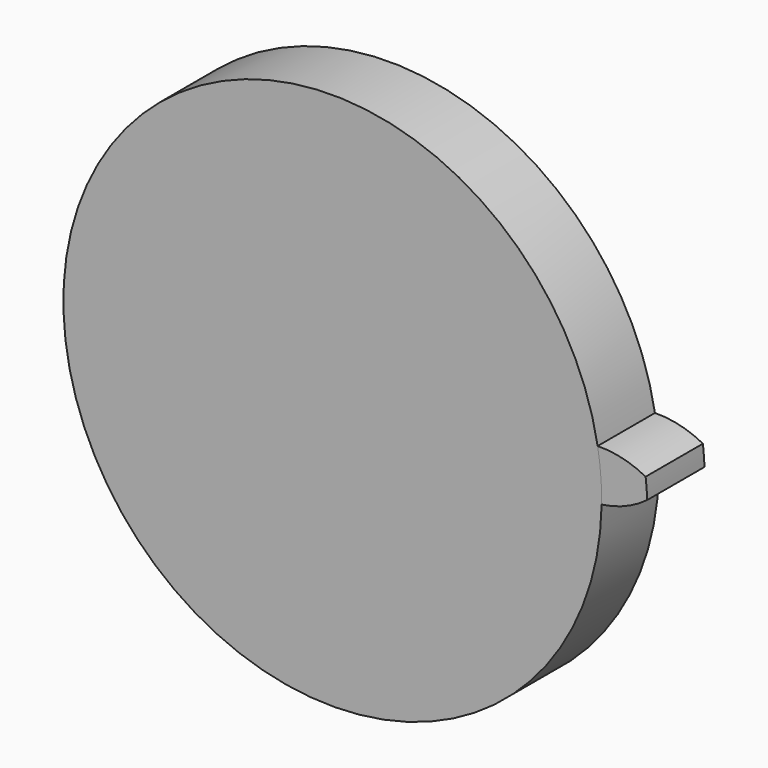
from build123d import *

# Parameters (mm, degrees)
F1_DEPTH = 5
F2_DEPTH = 5


with BuildPart() as f1:
    # F0 (on Front) → F1 (new body)
    with BuildSketch(Plane.XZ):
        with BuildLine():
            ThreePointArc((18.791765, -0.2801), (18.793331, -0.140054), (18.793852, 0))
            ThreePointArc((18.793852, 0), (18.72388, 1.620246), (18.514485, 3.228427))
            ThreePointArc((18.514485, 3.228427), (-18.735435, -1.480668), (18.791765, -0.2801))
        make_face()
    extrude(amount=F1_DEPTH)


with BuildPart() as f2:
    # F0 (on Front) → F2 (new body)
    with BuildSketch(Plane.XZ):
        with BuildLine():
            ThreePointArc((18.514485, 3.228427), (18.72388, 1.620246), (18.793852, 0))
            ThreePointArc((18.793852, 0), (18.793331, -0.140054), (18.791765, -0.2801))
            ThreePointArc((18.791765, -0.2801), (20.4675, 0.173145), (21.975753, 1.032616))
            ThreePointArc((21.975753, 1.032616), (21.931616, 1.733264), (21.865147, 2.432146))
            ThreePointArc((21.865147, 2.432146), (20.240612, 3.044032), (18.514485, 3.228427))
        make_face()
    extrude(amount=F2_DEPTH)


solid = Compound([f1.part, f2.part])
